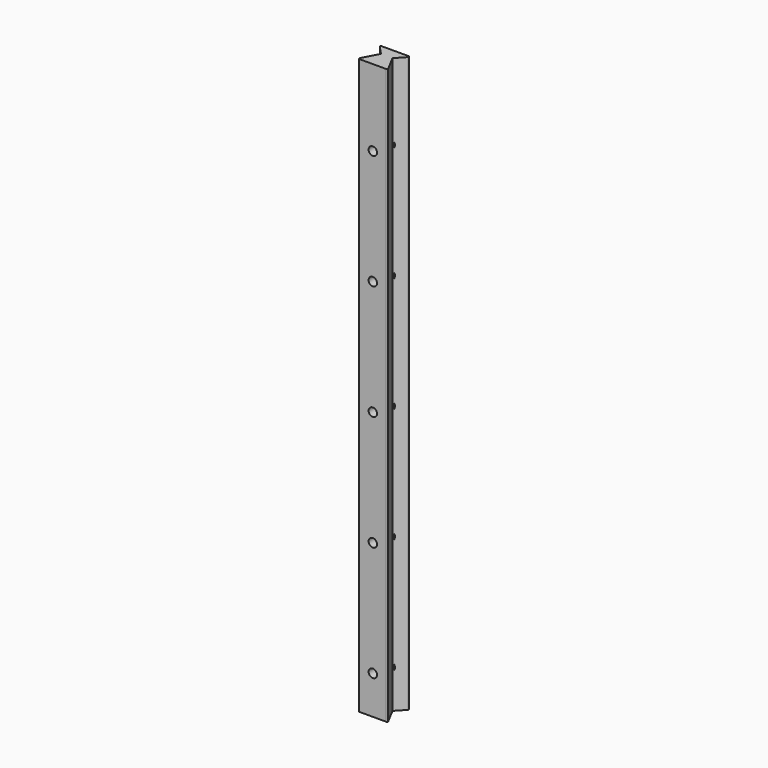
from build123d import *

# Parameters (mm, degrees)
PAD_DEPTH       = 300
SKETCH001_R     = 2.2
POCKET_DEPTH    = 14.588933
SKETCH002_R     = 3.7
POCKET001_DEPTH = 5


with BuildPart() as part:
    # Sketch → Pad (new body)
    with BuildSketch(Plane.XY):
        with BuildLine():
            Line((-7, 0), (7, 0))
            ThreePointArc((7, 0), (7.428584, 0.242481), (7.441474, 0.734736))
            Line((3, 9.087933), (7.441474, 0.734736))
            Line((7.364852, 13.746052), (3, 9.087933))
            ThreePointArc((7.364852, 13.746052), (7.458771, 14.286754), (7, 14.587933))
            Line((7, 14.587933), (-7, 14.587933))
            ThreePointArc((-7, 14.587933), (-7.458771, 14.286754), (-7.364852, 13.746052))
            Line((-7.364852, 13.746052), (-3, 9.087933))
            Line((-3, 9.087933), (-7.441474, 0.734736))
            ThreePointArc((-7.441474, 0.734736), (-7.428584, 0.242481), (-7, 0))
        make_face()
    extrude(amount=PAD_DEPTH)

    # Sketch001 (on Face2 of Pad) → Pocket (cut, through all)
    with BuildSketch(Plane(origin=(0, 14.587933, 0), x_dir=(-1, 0, 0), z_dir=(0, 1, 0))):
        with Locations((0, 20)):
            Circle(SKETCH001_R)
        with Locations((0, 80)):
            Circle(SKETCH001_R)
        with Locations((0, 140)):
            Circle(SKETCH001_R)
        with Locations((0, 200)):
            Circle(SKETCH001_R)
        with Locations((0, 260)):
            Circle(SKETCH001_R)
    extrude(amount=-POCKET_DEPTH, mode=Mode.SUBTRACT)

    # Sketch002 → Pocket001 (cut)
    with BuildSketch(Plane(origin=(0, 14.587933, 0), x_dir=(-1, 0, 0), z_dir=(0, 1, 0))):
        with Locations((0, 260)):
            Circle(SKETCH002_R)
        with Locations((0, 200)):
            Circle(SKETCH002_R)
        with Locations((0, 140)):
            Circle(SKETCH002_R)
        with Locations((0, 80)):
            Circle(SKETCH002_R)
        with Locations((0, 20)):
            Circle(SKETCH002_R)
    extrude(amount=-POCKET001_DEPTH, mode=Mode.SUBTRACT)


solid = part.part
